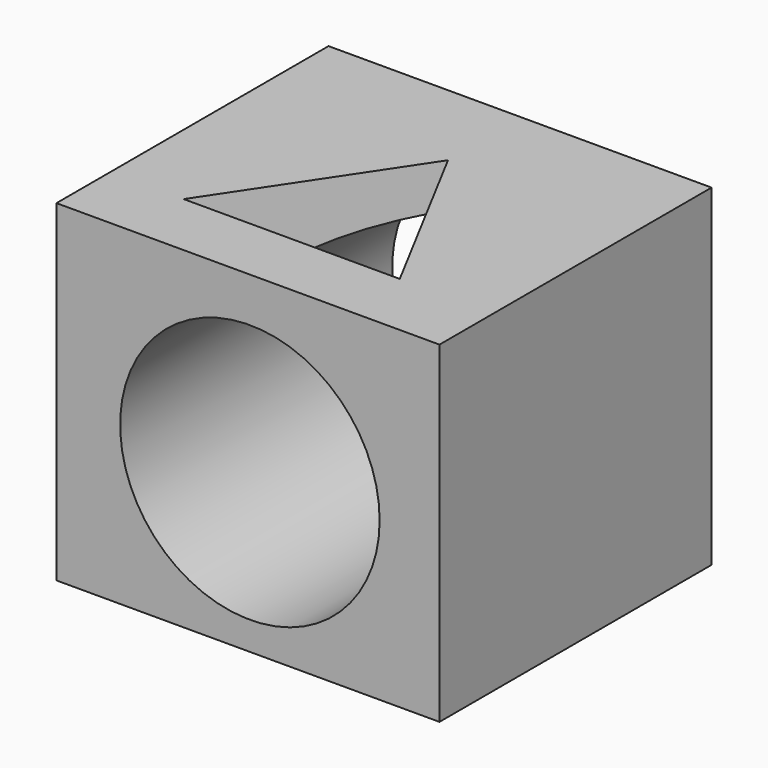
from build123d import *

# Parameters (mm, degrees)
F0_W     = 143.039465
F0_H     = 124.044284
F0_R     = 48.455105
F1_DEPTH = 127
F3_DEPTH = 25.4


with BuildPart() as f1:
    # F0 (on Front) → F1 (new body)
    with BuildSketch(Plane.XZ):
        with Locations((-0.719518, 3.021963)):
            Rectangle(F0_W, F0_H)
        Circle(F0_R, mode=Mode.SUBTRACT)
    extrude(amount=F1_DEPTH)

    # F2 (on face) → F3 (cut)
    with BuildSketch(Plane.XY.offset(65.044105)):
        Polygon((35.837892, -101.840705), (0, -34.521569), (-44.855904, -101.840705), align=None)
    extrude(amount=-F3_DEPTH, mode=Mode.SUBTRACT)


solid = f1.part
